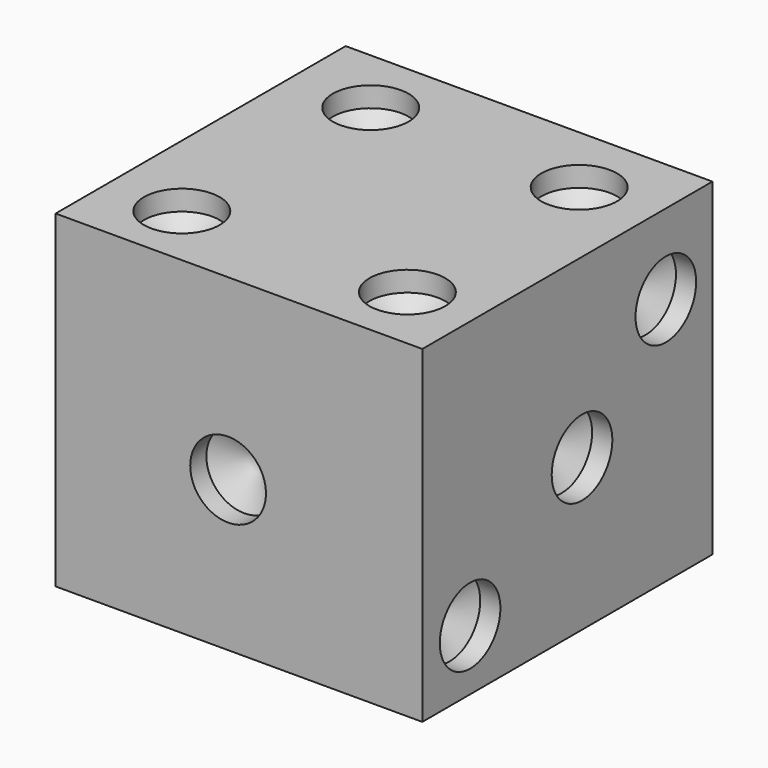
from build123d import *

# Parameters (mm, degrees)
F0_W      = 72.6099312305
F0_H      = 71.7801898718
F1_DEPTH  = 65
F3_D      = 15
F3_DEPTH  = 4
F3_TIP    = 4.5064546427
F6_D      = 15
F6_DEPTH  = 4
F6_TIP    = 4.5064546427
F7_D      = 15
F7_DEPTH  = 4
F7_TIP    = 4.5064546427
F12_D     = 15
F12_DEPTH = 4
F12_TIP   = 4.5064546427
F13_D     = 15
F13_DEPTH = 4
F13_TIP   = 4.5064546427
F14_D     = 15
F14_DEPTH = 4
F14_TIP   = 4.5064546427
F15_D     = 15
F15_DEPTH = 4
F15_TIP   = 4.5064546427
F22_D     = 15
F22_DEPTH = 4
F22_TIP   = 4.5064546427
F23_D     = 15
F23_DEPTH = 4
F23_TIP   = 4.5064546427
F24_D     = 15
F24_DEPTH = 4
F24_TIP   = 4.5064546427
F25_D     = 15
F25_DEPTH = 4
F25_TIP   = 4.5064546427
F26_D     = 15
F26_DEPTH = 4
F26_TIP   = 4.5064546427
F27_D     = 15
F27_DEPTH = 4
F27_TIP   = 4.5064546427
F31_D     = 15
F31_DEPTH = 4
F31_TIP   = 4.5064546427
F32_D     = 15
F32_DEPTH = 4
F32_TIP   = 4.5064546427
F33_D     = 15
F33_DEPTH = 4
F33_TIP   = 4.5064546427
F37_D     = 15
F37_DEPTH = 4
F37_TIP   = 4.5064546427
F38_D     = 15
F38_DEPTH = 4
F38_TIP   = 4.5064546427
F41_D     = 15
F41_DEPTH = 4
F41_TIP   = 4.5064546427
F42_D     = 15
F42_DEPTH = 4
F42_TIP   = 4.5064546427
F43_D     = 15
F43_DEPTH = 4
F43_TIP   = 4.5064546427


with BuildPart() as f1:
    # F0 (on Top) → F1 (new body)
    with BuildSketch(Plane.XY):
        Rectangle(F0_W, F0_H)
    extrude(amount=F1_DEPTH)

    # F3
    with Locations(Plane.XZ.offset(35.8900949359)):
        with Locations((-2.1530347876, 29.7311879694)):
            Hole(F3_D / 2, depth=F3_DEPTH)
            with Locations((0, 0, -(F3_DEPTH + F3_TIP / 2))):  # 118° drill point
                Cone(0, F3_D / 2, F3_TIP, mode=Mode.SUBTRACT)

    # F6
    with Locations(Plane(origin=(-36.3049656153, 0, 0), x_dir=(0, -1, 0), z_dir=(-1, 0, 0))):
        with Locations((22.2641993314, 47.3547130823)):
            Hole(F6_D / 2, depth=F6_DEPTH)
            with Locations((0, 0, -(F6_DEPTH + F6_TIP / 2))):  # 118° drill point
                Cone(0, F6_D / 2, F6_TIP, mode=Mode.SUBTRACT)

    # F7
    with Locations(Plane(origin=(-36.3049656153, 0, 0), x_dir=(0, -1, 0), z_dir=(-1, 0, 0))):
        with Locations((-25.2181496471, 10.9740728512)):
            Hole(F7_D / 2, depth=F7_DEPTH)
            with Locations((0, 0, -(F7_DEPTH + F7_TIP / 2))):  # 118° drill point
                Cone(0, F7_D / 2, F7_TIP, mode=Mode.SUBTRACT)

    # F12
    with Locations(Plane.XY.offset(65)):
        with Locations((-20.3992947936, 22.2076252103)):
            Hole(F12_D / 2, depth=F12_DEPTH)
            with Locations((0, 0, -(F12_DEPTH + F12_TIP / 2))):  # 118° drill point
                Cone(0, F12_D / 2, F12_TIP, mode=Mode.SUBTRACT)

    # F13
    with Locations(Plane.XY.offset(65)):
        with Locations((21.4252322912, 21.5187519789)):
            Hole(F13_D / 2, depth=F13_DEPTH)
            with Locations((0, 0, -(F13_DEPTH + F13_TIP / 2))):  # 118° drill point
                Cone(0, F13_D / 2, F13_TIP, mode=Mode.SUBTRACT)

    # F14
    with Locations(Plane.XY.offset(65)):
        with Locations((-21.5802267194, -23.0612829328)):
            Hole(F14_D / 2, depth=F14_DEPTH)
            with Locations((0, 0, -(F14_DEPTH + F14_TIP / 2))):  # 118° drill point
                Cone(0, F14_D / 2, F14_TIP, mode=Mode.SUBTRACT)

    # F15
    with Locations(Plane.XY.offset(65)):
        with Locations((22.606164217, -22.4708169699)):
            Hole(F15_D / 2, depth=F15_DEPTH)
            with Locations((0, 0, -(F15_DEPTH + F15_TIP / 2))):  # 118° drill point
                Cone(0, F15_D / 2, F15_TIP, mode=Mode.SUBTRACT)

    # F22
    with Locations(Plane(origin=(0, 35.8900949359, 0), x_dir=(-1, 0, 0), z_dir=(0, 1, 0))):
        with Locations((-23.0850540102, 50.5671985447)):
            Hole(F22_D / 2, depth=F22_DEPTH)
            with Locations((0, 0, -(F22_DEPTH + F22_TIP / 2))):  # 118° drill point
                Cone(0, F22_D / 2, F22_TIP, mode=Mode.SUBTRACT)

    # F23
    with Locations(Plane(origin=(0, 35.8900949359, 0), x_dir=(-1, 0, 0), z_dir=(0, 1, 0))):
        with Locations((-24.3417993188, 32.1762934327)):
            Hole(F23_D / 2, depth=F23_DEPTH)
            with Locations((0, 0, -(F23_DEPTH + F23_TIP / 2))):  # 118° drill point
                Cone(0, F23_D / 2, F23_TIP, mode=Mode.SUBTRACT)

    # F24
    with Locations(Plane(origin=(0, 35.8900949359, 0), x_dir=(-1, 0, 0), z_dir=(0, 1, 0))):
        with Locations((-24.9489825219, 11.8078188971)):
            Hole(F24_D / 2, depth=F24_DEPTH)
            with Locations((0, 0, -(F24_DEPTH + F24_TIP / 2))):  # 118° drill point
                Cone(0, F24_D / 2, F24_TIP, mode=Mode.SUBTRACT)

    # F25
    with Locations(Plane(origin=(0, 35.8900949359, 0), x_dir=(-1, 0, 0), z_dir=(0, 1, 0))):
        with Locations((22.4829968065, 50.1865930855)):
            Hole(F25_D / 2, depth=F25_DEPTH)
            with Locations((0, 0, -(F25_DEPTH + F25_TIP / 2))):  # 118° drill point
                Cone(0, F25_D / 2, F25_TIP, mode=Mode.SUBTRACT)

    # F26
    with Locations(Plane(origin=(0, 35.8900949359, 0), x_dir=(-1, 0, 0), z_dir=(0, 1, 0))):
        with Locations((21.5991660953, 31.6905751824)):
            Hole(F26_D / 2, depth=F26_DEPTH)
            with Locations((0, 0, -(F26_DEPTH + F26_TIP / 2))):  # 118° drill point
                Cone(0, F26_D / 2, F26_TIP, mode=Mode.SUBTRACT)

    # F27
    with Locations(Plane(origin=(0, 35.8900949359, 0), x_dir=(-1, 0, 0), z_dir=(0, 1, 0))):
        with Locations((20.2071741223, 12.2690275311)):
            Hole(F27_D / 2, depth=F27_DEPTH)
            with Locations((0, 0, -(F27_DEPTH + F27_TIP / 2))):  # 118° drill point
                Cone(0, F27_D / 2, F27_TIP, mode=Mode.SUBTRACT)

    # F31
    with Locations(Plane.YZ.offset(36.3049656153)):
        with Locations((24.3696309626, 49.1544306278)):
            Hole(F31_D / 2, depth=F31_DEPTH)
            with Locations((0, 0, -(F31_DEPTH + F31_TIP / 2))):  # 118° drill point
                Cone(0, F31_D / 2, F31_TIP, mode=Mode.SUBTRACT)

    # F32
    with Locations(Plane.YZ.offset(36.3049656153)):
        with Locations((3.6195591092, 30.0324633718)):
            Hole(F32_D / 2, depth=F32_DEPTH)
            with Locations((0, 0, -(F32_DEPTH + F32_TIP / 2))):  # 118° drill point
                Cone(0, F32_D / 2, F32_TIP, mode=Mode.SUBTRACT)

    # F33
    with Locations(Plane.YZ.offset(36.3049656153)):
        with Locations((-24.0738447756, 11.9759794325)):
            Hole(F33_D / 2, depth=F33_DEPTH)
            with Locations((0, 0, -(F33_DEPTH + F33_TIP / 2))):  # 118° drill point
                Cone(0, F33_D / 2, F33_TIP, mode=Mode.SUBTRACT)

    # F37
    with Locations(Plane(origin=(0, 0, 0), x_dir=(1, 0, 0), z_dir=(0, 0, -1))):
        with Locations((-24.6889404953, 23.873642087)):
            Hole(F37_D / 2, depth=F37_DEPTH)
            with Locations((0, 0, -(F37_DEPTH + F37_TIP / 2))):  # 118° drill point
                Cone(0, F37_D / 2, F37_TIP, mode=Mode.SUBTRACT)

    # F38
    with Locations(Plane(origin=(0, 0, 0), x_dir=(1, 0, 0), z_dir=(0, 0, -1))):
        with Locations((0, 0)):
            Hole(F38_D / 2, depth=F38_DEPTH)
            with Locations((0, 0, -(F38_DEPTH + F38_TIP / 2))):  # 118° drill point
                Cone(0, F38_D / 2, F38_TIP, mode=Mode.SUBTRACT)

    # F41
    with Locations(Plane(origin=(0, 0, 0), x_dir=(1, 0, 0), z_dir=(0, 0, -1))):
        with Locations((25.4348441958, 25.4543684423)):
            Hole(F41_D / 2, depth=F41_DEPTH)
            with Locations((0, 0, -(F41_DEPTH + F41_TIP / 2))):  # 118° drill point
                Cone(0, F41_D / 2, F41_TIP, mode=Mode.SUBTRACT)

    # F42
    with Locations(Plane(origin=(0, 0, 0), x_dir=(1, 0, 0), z_dir=(0, 0, -1))):
        with Locations((-22.2828052938, -22.9848101735)):
            Hole(F42_D / 2, depth=F42_DEPTH)
            with Locations((0, 0, -(F42_DEPTH + F42_TIP / 2))):  # 118° drill point
                Cone(0, F42_D / 2, F42_TIP, mode=Mode.SUBTRACT)

    # F43
    with Locations(Plane(origin=(0, 0, 0), x_dir=(1, 0, 0), z_dir=(0, 0, -1))):
        with Locations((21.6378718615, -21.6745659709)):
            Hole(F43_D / 2, depth=F43_DEPTH)
            with Locations((0, 0, -(F43_DEPTH + F43_TIP / 2))):  # 118° drill point
                Cone(0, F43_D / 2, F43_TIP, mode=Mode.SUBTRACT)


solid = f1.part
